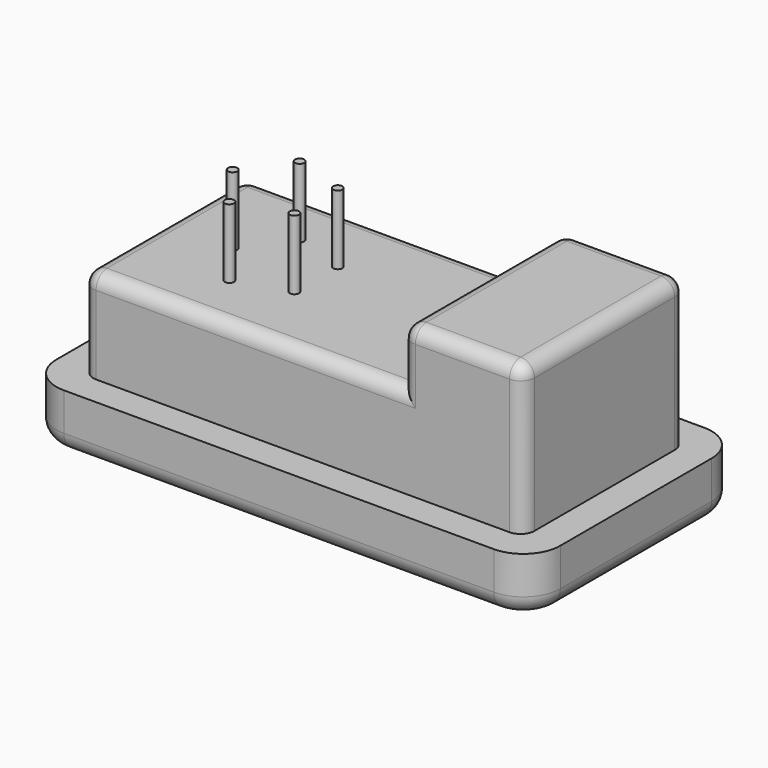
from build123d import *

# Parameters (mm, degrees)
F0_W      = 54.6
F0_H      = 28.5
F1_DEPTH  = 6.1
F2_R      = 4
F3_R      = 2
F4_W      = 47.8
F4_H      = 22
F5_DEPTH  = 10
F6_W      = 13.2
F6_H      = 22
F7_DEPTH  = 6.1
F8_R      = 1.5
F9_R      = 0.5
F10_DEPTH = 7.5


with BuildPart() as f1:
    # F0 (on Top) → F1 (new body)
    with BuildSketch(Plane.XY):
        with Locations((27.3, 14.25)):
            Rectangle(F0_W, F0_H)
    extrude(amount=F1_DEPTH)

    # F2
    f2_edges = [f1.edges().sort_by_distance(p)[0] for p in [
        (54.6, 0, 3.05),
        (0, 0, 3.05),
        (54.6, 28.5, 3.05),
        (0, 28.5, 3.05),
    ]]
    fillet(f2_edges, radius=F2_R)

    # F3
    f3_edges = [f1.edges().sort_by_distance(p)[0] for p in [
        (54.6, 14.25, 0),
        (53.428427, 1.171573, 0),
        (27.3, 0, 0),
        (53.428427, 27.328427, 0),
        (1.171573, 1.171573, 0),
        (0, 14.25, 0),
        (1.171573, 27.328427, 0),
        (27.3, 28.5, 0),
    ]]
    fillet(f3_edges, radius=F3_R)

    # F4 (on face) → F5 (join)
    with BuildSketch(Plane.XY.offset(6.1)):
        with Locations((27.3, 14.25)):
            Rectangle(F4_W, F4_H)
    extrude(amount=F5_DEPTH)

    # F6 (on face) → F7 (join)
    with BuildSketch(Plane.XY.offset(16.1)):
        with Locations((44.6, 14.25)):
            Rectangle(F6_W, F6_H)
    extrude(amount=F7_DEPTH)

    # F8
    f8_edges = [f1.edges().sort_by_distance(p)[0] for p in [
        (3.4, 3.25, 11.1),
        (20.7, 3.25, 16.1),
        (38, 3.25, 19.15),
        (44.6, 3.25, 22.2),
        (51.2, 3.25, 14.15),
        (51.2, 14.25, 22.2),
        (38, 14.25, 22.2),
        (44.6, 25.25, 22.2),
        (51.2, 25.25, 14.15),
        (20.7, 25.25, 16.1),
        (3.4, 14.25, 16.1),
        (38, 25.25, 19.15),
        (3.4, 25.25, 11.1),
    ]]
    fillet(f8_edges, radius=F8_R)

    # F9 (on face) → F10 (join)
    with BuildSketch(Plane.XY.offset(16.1)):
        with Locations((10.9, 14.25)):
            Circle(F9_R)
        with Locations((14.3549150281, 9.4947174185)):
            Circle(F9_R)
        with Locations((19.9450849719, 11.3110737385)):
            Circle(F9_R)
        with Locations((19.9450849719, 17.1889262615)):
            Circle(F9_R)
        with Locations((14.3549150281, 19.0052825815)):
            Circle(F9_R)
    extrude(amount=F10_DEPTH)


solid = f1.part
